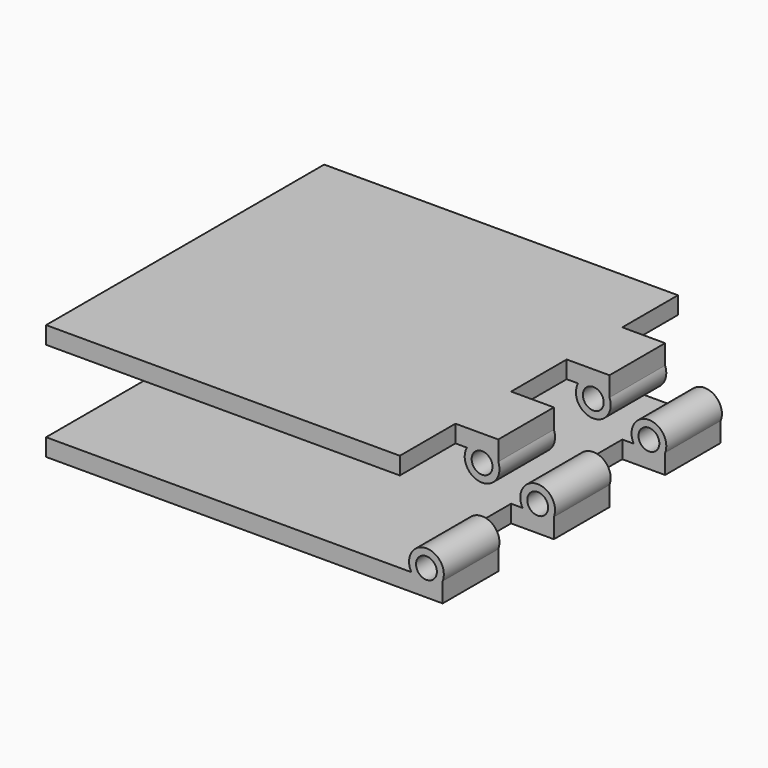
from build123d import *

# Parameters (mm, degrees)
F0_R          = 3
F1_DEPTH      = 50
F1_DEPTH_BACK = 50
F3_W          = 22.0232212332
F3_H          = 20
F6_DEPTH      = 25
F7_DEPTH      = 25


with BuildPart() as f1:
    # F0 (on Front) → F1 (new body, two sides)
    with BuildSketch(Plane.XZ) as f1_sk:
        with BuildLine():
            ThreePointArc((57.0408962667, 3.1389844976), (52.029669329, 9.9449223914), (48.0288798293, 2.5))
            Line((48.0288798293, 2.5), (-57.0408962667, 2.5))
            Line((-57.0408962667, 2.5), (-57.0408962667, -2.5))
            Line((-57.0408962667, -2.5), (57.0408962667, -2.5))
            Line((57.0408962667, -2.5), (57.0408962667, 3.1389844976))
        make_face()
        with Locations((52.3832995862, 4.9574435051)):
            Circle(F0_R, mode=Mode.SUBTRACT)
    extrude(amount=F1_DEPTH)
    extrude(f1_sk.sketch, amount=-F1_DEPTH_BACK)


with BuildPart() as f5_1:
    # F5: instance of F1
    add(f1.part.mirror(Plane.XY.offset(14.2)))

    # F3 (on offset) → F7 (cut)
    with BuildSketch(Plane.XY.offset(13.1)):
        with Locations((55.7416907957, 40)):
            Rectangle(F3_W, F3_H)
        with Locations((55.7416907957, 0)):
            Rectangle(F3_W, F3_H)
        with Locations((55.7416907957, -40)):
            Rectangle(F3_W, F3_H)
    extrude(amount=F7_DEPTH, mode=Mode.SUBTRACT)


with BuildPart() as f1_1:
    add(f1.part)

    # F3 (on offset) → F6 (cut)
    with BuildSketch(Plane.XY.offset(13.1)):
        with Locations((55.7416907957, 20)):
            Rectangle(F3_W, F3_H)
        with Locations((55.7416907957, -20)):
            Rectangle(F3_W, F3_H)
    extrude(amount=-F6_DEPTH, mode=Mode.SUBTRACT)


solid = Compound([f5_1.part, f1_1.part])
